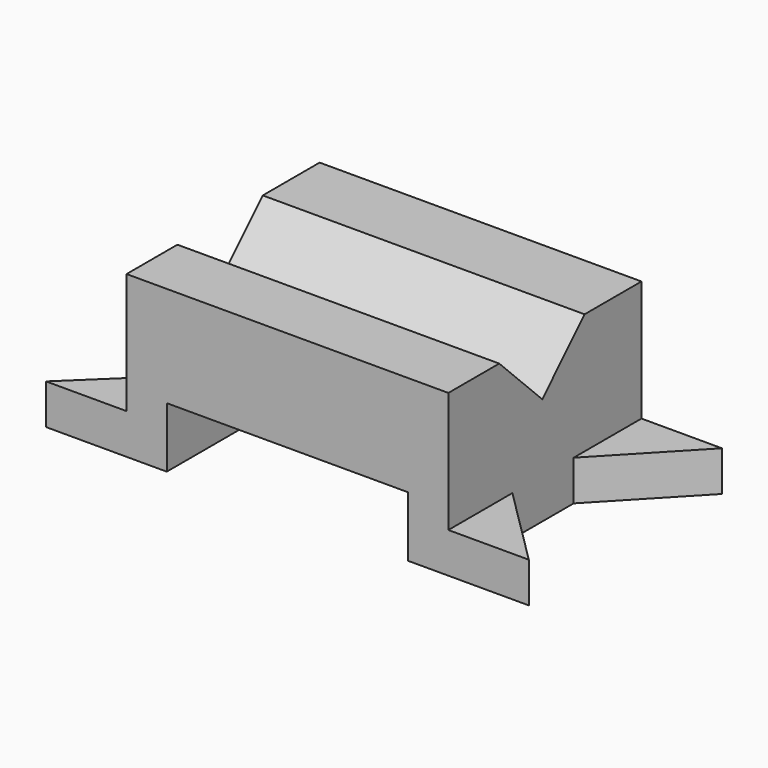
from build123d import *

# Parameters (mm, degrees)
F1_DEPTH = 76.2
F3_DEPTH = 12.7
F5_DEPTH = 12.7
F7_DEPTH = 101.6


with BuildPart() as f1:
    # F0 (on Front) → F1 (new body)
    with BuildSketch(Plane.XZ):
        Polygon((-75.980723, 12.7), (-75.980723, 0), (-37.880723, 0), (-37.880723, 19.05), (38.319277, 19.05), (38.319277, 0), (76.419277, 0), (76.419277, 12.7), (51.019277, 12.7), (51.019277, 50.8), (-50.580723, 50.8), (-50.580723, 12.7), align=None)
    extrude(amount=F1_DEPTH)

    # F2 (on face) → F3 (cut, through all)
    with BuildSketch(Plane.XY.offset(12.7)):
        Polygon((51.019277, -50.941616), (76.419277, -76.2), (76.419277, 0), (51.019277, -26.765935), align=None)
    extrude(amount=-F3_DEPTH, mode=Mode.SUBTRACT)

    # F4 (on face) → F5 (cut, through all)
    with BuildSketch(Plane.XY.offset(12.7)):
        Polygon((-75.980723, 0), (-75.980723, -76.2), (-50.580723, -51.805038), (-50.580723, -24.175685), align=None)
    extrude(amount=-F5_DEPTH, mode=Mode.SUBTRACT)

    # F6 (on face) → F7 (cut, through all)
    with BuildSketch(Plane.YZ.offset(51.019277)):
        Polygon((-56.127969, 50.8), (-39.141584, 33.96108), (-22.448849, 50.8), align=None)
    extrude(amount=-F7_DEPTH, mode=Mode.SUBTRACT)


solid = f1.part
